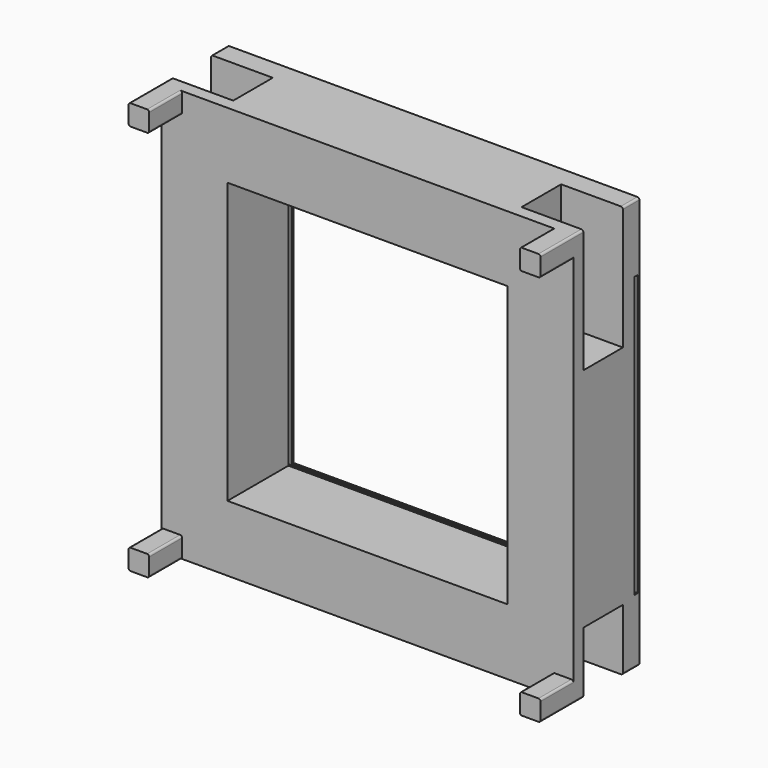
from build123d import *

# Parameters (mm, degrees)
F0_W      = 1000
F0_H      = 1000
F1_DEPTH  = 300
F2_W      = 900
F2_H      = 100
F3_DEPTH  = 1000.001
F4_W      = 100
F4_H      = 900
F5_DEPTH  = 1000.001
F6_W      = 300
F6_H      = 120
F7_DEPTH  = 150
F8_W      = 300
F8_H      = 120
F9_DEPTH  = 150
F10_W     = 120
F10_H     = 300
F11_DEPTH = 150
F12_W     = 120
F12_H     = 300
F13_DEPTH = 150
F14_R     = 5
F15_R     = 5
F16_W     = 680
F16_H     = 680
F17_DEPTH = 300.001
F18_W     = 10
F18_H     = 680
F19_DEPTH = 160.001
F20_DEPTH = 840.001
F21_SCALE = 0.1


with BuildPart() as f1:
    # F0 (on Front) → F1 (new body)
    with BuildSketch(Plane.XZ):
        with Locations((450.7653813809, 448.8989327101)):
            Rectangle(F0_W, F0_H)
    extrude(amount=F1_DEPTH)

    # F2 (on face) → F3 (cut, through all)
    with BuildSketch(Plane.XY.offset(948.8989327101)):
        with Locations((450.7653813809, -250)):
            Rectangle(F2_W, F2_H)
    extrude(amount=-F3_DEPTH, mode=Mode.SUBTRACT)

    # F4 (on face) → F5 (cut, through all)
    with BuildSketch(Plane(origin=(-49.2346186191, 0, 0), x_dir=(0, -1, 0), z_dir=(-1, 0, 0))):
        with Locations((250, 448.8989327101)):
            Rectangle(F4_W, F4_H)
    extrude(amount=-F5_DEPTH, mode=Mode.SUBTRACT)

    # F6 (on face) → F7 (cut)
    with BuildSketch(Plane(origin=(0, 0, -51.1010672899), x_dir=(1, 0, 0), z_dir=(0, 0, -1))):
        with Locations((100.7653813809, 110)):
            Rectangle(F6_W, F6_H)
    extrude(amount=-F7_DEPTH, mode=Mode.SUBTRACT)

    # F8 (on face) → F9 (cut)
    with BuildSketch(Plane(origin=(0, 0, -51.1010672899), x_dir=(1, 0, 0), z_dir=(0, 0, -1))):
        with Locations((800.7653813809, 110)):
            Rectangle(F8_W, F8_H)
    extrude(amount=-F9_DEPTH, mode=Mode.SUBTRACT)

    # F10 (on face) → F11 (cut)
    with BuildSketch(Plane.YZ.offset(950.7653813809)):
        with Locations((-110, 798.8989327101)):
            Rectangle(F10_W, F10_H)
    extrude(amount=-F11_DEPTH, mode=Mode.SUBTRACT)

    # F12 (on face) → F13 (cut)
    with BuildSketch(Plane(origin=(-49.2346186191, 0, 0), x_dir=(0, -1, 0), z_dir=(-1, 0, 0))):
        with Locations((110, 798.8989327101)):
            Rectangle(F12_W, F12_H)
    extrude(amount=-F13_DEPTH, mode=Mode.SUBTRACT)

    # F14
    f14_edges = [f1.edges().sort_by_distance(p)[0] for p in [
        (950.765381, -235, -51.101067),
        (900.765381, -250, -51.101067),
        (950.765381, -250, -1.101067),
        (900.765381, -250, -1.101067),
        (-49.234619, -235, -51.101067),
        (0.765381, -250, -51.101067),
        (-49.234619, -250, -1.101067),
        (0.765381, -250, -1.101067),
        (-49.234619, -235, 948.898933),
        (0.765381, -250, 948.898933),
        (-49.234619, -250, 898.898933),
        (0.765381, -250, 898.898933),
        (950.765381, -235, 948.898933),
        (950.765381, -250, 898.898933),
        (900.765381, -250, 898.898933),
        (900.765381, -250, 948.898933),
    ]]
    fillet(f14_edges, radius=F14_R)

    # F15
    f15_edges = [f1.edges().sort_by_distance(p)[0] for p in [
        (950.765381, -25, 948.898933),
        (950.765381, -25, -51.101067),
        (-49.234619, -25, -51.101067),
        (-49.234619, -25, 948.898933),
    ]]
    fillet(f15_edges, radius=F15_R)

    # F16 (on face) → F17 (cut, through all)
    with BuildSketch(Plane(origin=(0, 0, 0), x_dir=(-1, 0, 0), z_dir=(0, 1, 0))):
        with Locations((-450.7653813809, 448.8989327101)):
            Rectangle(F16_W, F16_H)
    extrude(amount=-F17_DEPTH, mode=Mode.SUBTRACT)

    # F18 (on face) → F19 (cut, through all)
    with BuildSketch(Plane.YZ.offset(110.7653813809)):
        with Locations((-10, 445.622831583)):
            Rectangle(F18_W, F18_H)
    extrude(amount=-F19_DEPTH, mode=Mode.SUBTRACT)

    # F18 (on face) → F20 (cut, through all)
    with BuildSketch(Plane.YZ.offset(110.7653813809)):
        with Locations((-10, 445.622831583)):
            Rectangle(F18_W, F18_H)
    extrude(amount=F20_DEPTH, mode=Mode.SUBTRACT)


with BuildPart() as f1_1:
    # F21: moved
    add(f1.part.scale(F21_SCALE))


solid = f1_1.part
